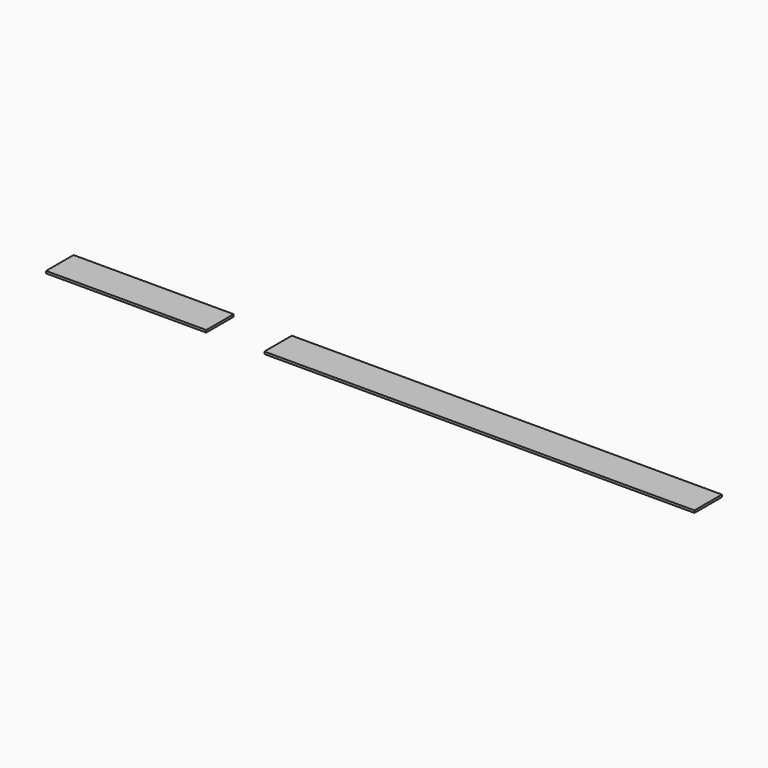
from build123d import *

# Parameters (mm, degrees)
F0_W     = 70
F0_H     = 15
F0_W_2   = 188
F1_DEPTH = 1


with BuildPart() as f1:
    # F0 (on Top) → F1 (new body)
    with BuildSketch(Plane.XY):
        with Locations((-106.7, 0)):
            Rectangle(F0_W, F0_H)
        with Locations((47.7, 0)):
            Rectangle(F0_W_2, F0_H)
    extrude(amount=F1_DEPTH)


solid = f1.part
